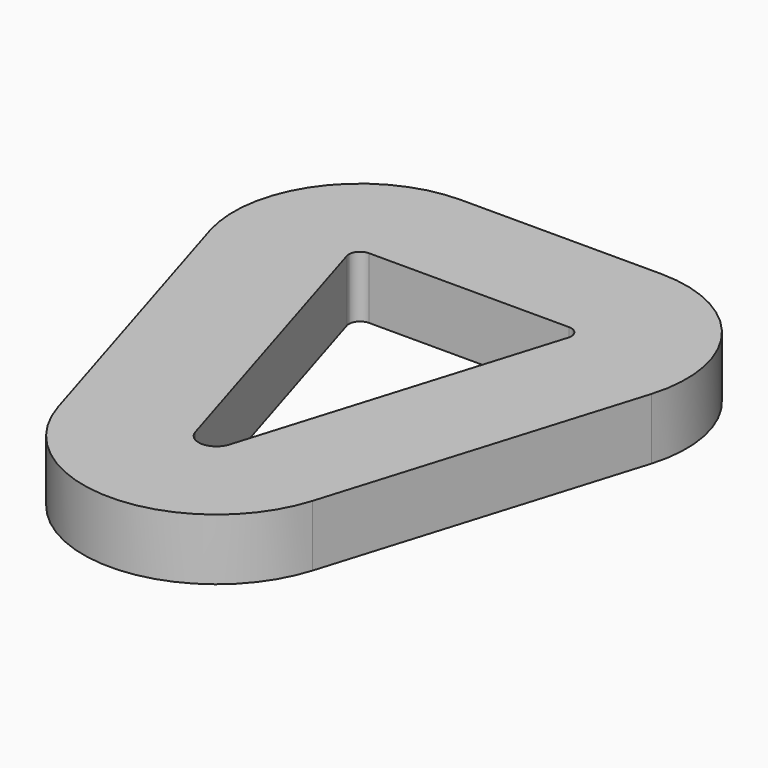
from build123d import *

# Parameters (mm, degrees)
PAD_DEPTH = 13.8


with BuildPart() as part:
    # Sketch → Pad (new body)
    with BuildSketch(Plane.XY):
        with BuildLine():
            Line((-22.5, 100.92), (22.5, 100.92))
            ThreePointArc((49.679403, 64.194795), (45.344368, 89.406544), (22.5, 100.92))
            Line((49.679403, 64.194795), (28.613925, -4.743552))
            ThreePointArc((-28.613925, -4.743552), (0, -25.92), (28.613925, -4.743552))
            Line((-49.679403, 64.194795), (-28.613925, -4.743552))
            ThreePointArc((-22.5, 100.92), (-45.344368, 89.406544), (-49.679403, 64.194795))
        make_face()
        with BuildLine():
            Line((3.825391, 2.831076), (24.890869, 71.769422))
            ThreePointArc((24.890869, 71.769422), (24.972567, 72.130658), (25, 72.5))
            ThreePointArc((25, 72.5), (24.267767, 74.267767), (22.5, 75))
            Line((-22.5, 75), (22.5, 75))
            ThreePointArc((-22.5, 75), (-24.267767, 74.267767), (-25, 72.5))
            ThreePointArc((-25, 72.5), (-24.972567, 72.130658), (-24.890869, 71.769422))
            Line((-3.825391, 2.831076), (-24.890869, 71.769422))
            ThreePointArc((-3.825391, 2.831076), (0, 0), (3.825391, 2.831076))
        make_face(mode=Mode.SUBTRACT)
    extrude(amount=PAD_DEPTH)


solid = part.part
